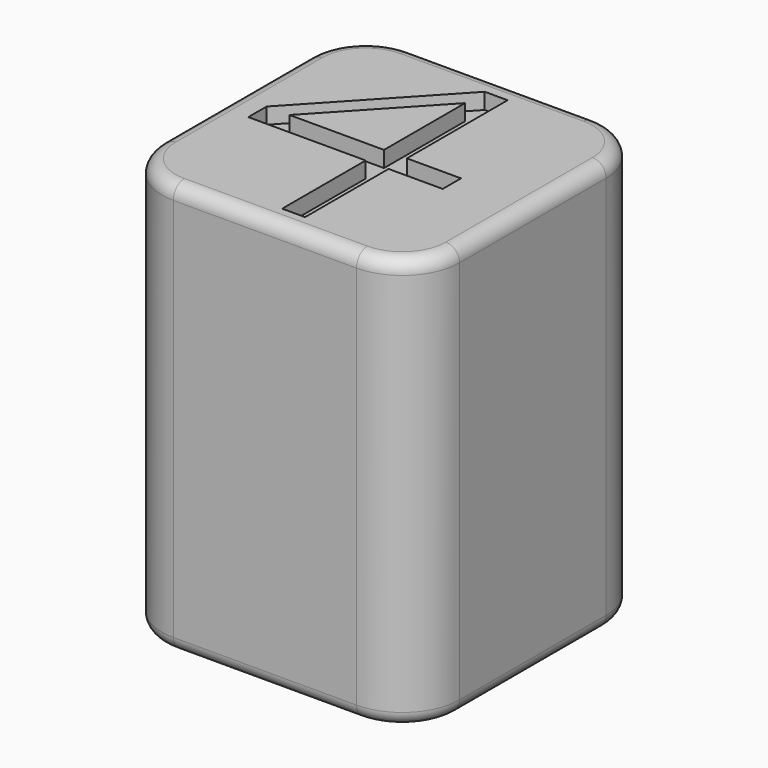
from build123d import *

# Parameters (mm, degrees)
F0_W     = 2
F0_H     = 2
F0_H_2   = 9.117820628
F0_W_2   = 4.7262388766
F1_DEPTH = 36
F2_DEPTH = 1.4
F3_R     = 5
F4_R     = 1.2


with BuildPart() as f1:
    # F0 (on Top) → F1 (new body)
    with BuildSketch(Plane.XY):
        Polygon((13, -13), (13, 0), (13, 13), (-13, 13), (-13, -13), align=None)
        Polygon((-10.2526927367, 0), (0, 10.9954001382), (2, 10.9954001382), (2, 0), (6.7262388766, 0), (6.7262388766, -2), (2, -2), (2, -11.117820628), (0, -11.117820628), (0, -2), (-10.2526927367, -2), align=None, mode=Mode.SUBTRACT)
        Polygon((0, 8.8505196818), (0, 10.9954001382), (-10.2526927367, 0), (-8.2526927367, 0), align=None)
        Polygon((-8.2526927367, 0), (-10.2526927367, 0), (-10.2526927367, -2), (0, -2), (0, 0), align=None)
        Polygon((0, 0), (0, 8.8505196818), (-8.2526927367, 0), align=None)
        Polygon((2, 0), (2, 10.9954001382), (0, 8.8505196818), (0, 0), align=None)
        Polygon((2, 10.9954001382), (0, 10.9954001382), (0, 8.8505196818), align=None)
        with Locations((1, -1)):
            Rectangle(F0_W, F0_H)
        with Locations((1, -6.558910314)):
            Rectangle(F0_W, F0_H_2)
        with Locations((4.3631194383, -1)):
            Rectangle(F0_W_2, F0_H)
    extrude(amount=-F1_DEPTH)

    # F0 (on Top) → F2 (cut)
    with BuildSketch(Plane.XY):
        Polygon((0, 8.8505196818), (0, 10.9954001382), (-10.2526927367, 0), (-8.2526927367, 0), align=None)
        Polygon((2, 10.9954001382), (0, 10.9954001382), (0, 8.8505196818), align=None)
        Polygon((2, 0), (2, 10.9954001382), (0, 8.8505196818), (0, 0), align=None)
        with Locations((4.3631194383, -1)):
            Rectangle(F0_W_2, F0_H)
        with Locations((1, -6.558910314)):
            Rectangle(F0_W, F0_H_2)
        with Locations((1, -1)):
            Rectangle(F0_W, F0_H)
        Polygon((-8.2526927367, 0), (-10.2526927367, 0), (-10.2526927367, -2), (0, -2), (0, 0), align=None)
    extrude(amount=-F2_DEPTH, mode=Mode.SUBTRACT)

    # F3
    f3_edges = [f1.edges().sort_by_distance(p)[0] for p in [
        (13, 13, -18),
        (13, -13, -18),
        (-13, -13, -18),
        (-13, 13, -18),
    ]]
    fillet(f3_edges, radius=F3_R)

    # F4
    f4_edges = [f1.edges().sort_by_distance(p)[0] for p in [
        (-13, 0, 0),
        (-11.535534, 11.535534, 0),
        (0, 13, 0),
        (-11.535534, -11.535534, 0),
        (0, -13, 0),
        (11.535534, -11.535534, 0),
        (13, 0, 0),
        (11.535534, 11.535534, 0),
        (13, 0, -36),
        (11.535534, -11.535534, -36),
        (11.535534, 11.535534, -36),
        (0, -13, -36),
        (0, 13, -36),
        (-11.535534, -11.535534, -36),
        (-11.535534, 11.535534, -36),
        (-13, 0, -36),
    ]]
    fillet(f4_edges, radius=F4_R)


solid = f1.part
